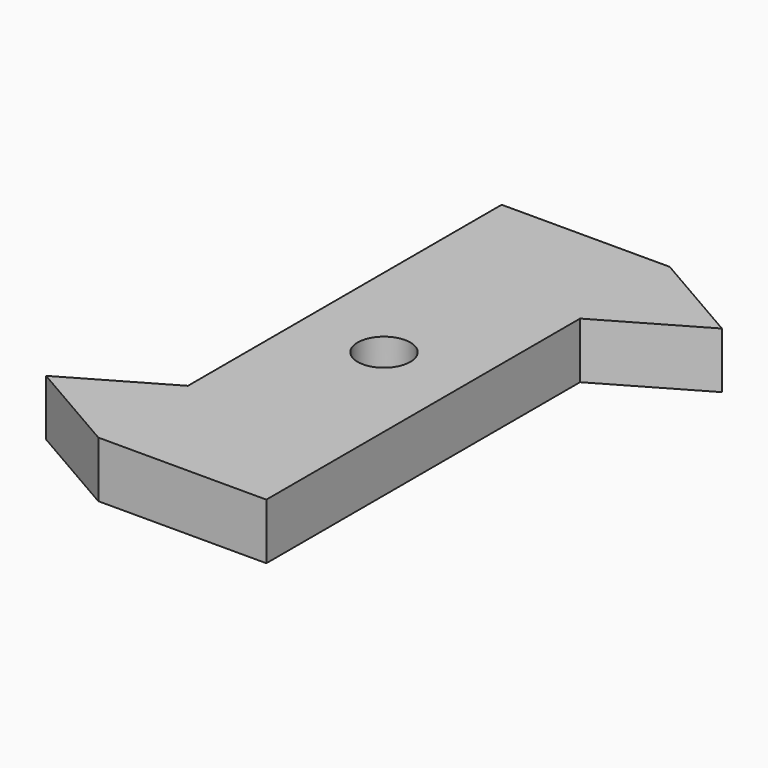
from build123d import *

# Parameters (mm, degrees)
F0_R     = 2.35
F1_DEPTH = 5


with BuildPart() as f1:
    # F0 (on Top) → F1 (new body)
    with BuildSketch(Plane.XY):
        Polygon((-39.076904, -51.710204), (-39.076904, -46.710204), (-54.076904, -46.710204), (-54.076904, -81.710204), (-54.076904, -86.710204), (-54.076904, -91.710204), (-39.076904, -91.710204), (-39.076904, -56.710204), align=None)
        with Locations((-46.576904, -69.210204)):
            Circle(F0_R, mode=Mode.SUBTRACT)
        Polygon((-30.41665, -51.710204), (-39.076904, -46.710204), (-39.076904, -51.710204), align=None)
        Polygon((-30.41665, -51.710204), (-39.076904, -51.710204), (-39.076904, -56.710204), align=None)
        Polygon((-54.076904, -86.710204), (-54.076904, -81.710204), (-62.737158, -86.710204), align=None)
        Polygon((-54.076904, -91.710204), (-54.076904, -86.710204), (-62.737158, -86.710204), align=None)
    extrude(amount=F1_DEPTH)


solid = f1.part
